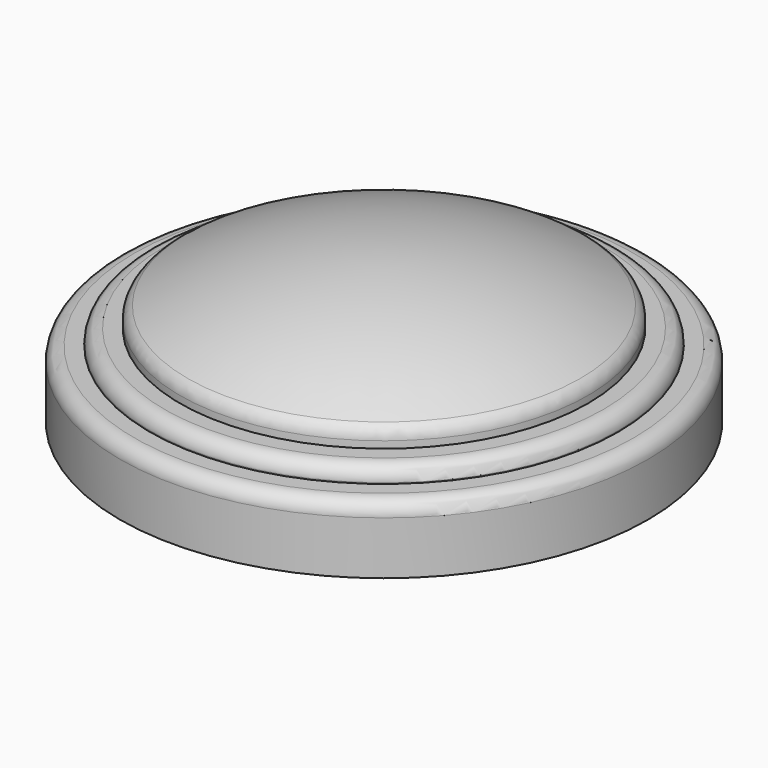
from build123d import *

# Parameters (mm, degrees)
F2_R = 1.27
F3_T = -1.5


with BuildPart() as f1:
    # F0 (on Front) → F1 (revolve)
    with BuildSketch(Plane.XZ):
        Polygon((-23.5, 0), (0, 0), (0, 5.9944), (-20.828, 5.9944), (-23.5, 5.9944), align=None)
        Polygon((-20.828, 5.9944), (0, 5.9944), (0, 7.366), (-18.1559962, 7.366), (-20.828, 7.366), align=None)
        with BuildLine():
            Line((-18.1559962, 7.366), (0, 7.366))
            Line((0, 7.366), (0, 13.462))
            ThreePointArc((0, 13.462), (-9.3803005465, 12.2615564285), (-18.1559962, 8.7376))
            Line((-18.1559962, 8.7376), (-18.1559962, 7.366))
        make_face()
    revolve(axis=Axis((0, 0, 6.731), (0, 0, 1)))

    # F2
    f2_edges = [f1.edges().sort_by_distance(p)[0] for p in [
        (20.828, 0, 7.366),
        (18.155996, 0, 8.7376),
        (23.5, 0, 5.9944),
    ]]
    fillet(f2_edges, radius=F2_R)

    # F3
    f3_openings = [f1.faces().sort_by_distance(p)[0] for p in [
        (0, 0, 0),
    ]]
    offset(amount=F3_T, openings=f3_openings, kind=Kind.INTERSECTION)


solid = f1.part
